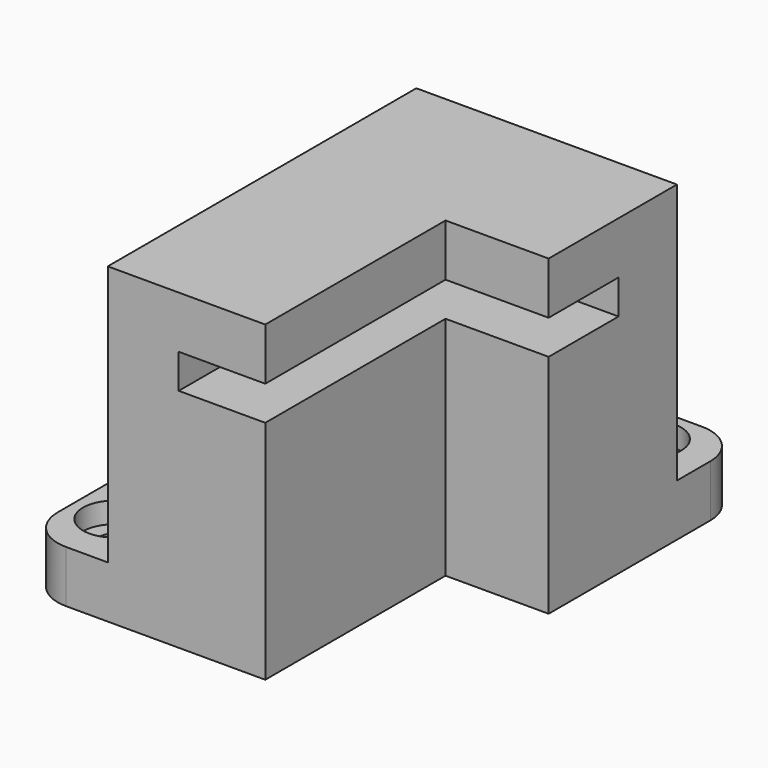
from build123d import *

# Parameters (mm, degrees)
SKETCH021_W     = 33
SKETCH021_H     = 45
PAD004_DEPTH    = 30
POCKET012_DEPTH = 25
SKETCH023_R     = 1.5
POCKET013_DEPTH = 5.001
SKETCH024_R     = 3
POCKET014_DEPTH = 2
FILLET005_R     = 4
SKETCH025_W     = 22.162351
SKETCH025_H     = 3.3
POCKET015_DEPTH = 30
SKETCH026_W     = 15.81044
SKETCH026_H     = 25.49089
POCKET016_DEPTH = 30.001


with BuildPart() as part:
    # Sketch021 → Pad004 (new body)
    with BuildSketch(Plane.XY):
        with Locations((-258.5, 252.5)):
            Rectangle(SKETCH021_W, SKETCH021_H)
    extrude(amount=PAD004_DEPTH)

    # Sketch022 (on Face6 of Pad004) → Pocket012 (cut)
    with BuildSketch(Plane.XY.offset(30)):
        Polygon((-302.024292, 225.851654), (-267, 225.851654), (-267, 267), (-233.564453, 267), (-233.564453, 282.862976), (-302.024292, 282.862976), align=None)
    extrude(amount=-POCKET012_DEPTH, mode=Mode.SUBTRACT)

    # Sketch023 (on Face6 of Pocket012) → Pocket013 (cut, through all)
    with BuildSketch(Plane.XY.offset(5)):
        with Locations((-247.791107, 271)):
            Circle(SKETCH023_R)
        with Locations((-271, 235.791107)):
            Circle(SKETCH023_R)
        with Locations((-271, 271)):
            Circle(SKETCH023_R)
    extrude(amount=-POCKET013_DEPTH, mode=Mode.SUBTRACT)

    # Sketch024 (on Face6 of Pocket013) → Pocket014 (cut)
    with BuildSketch(Plane.XY.offset(5)):
        with Locations((-271, 271)):
            Circle(SKETCH024_R)
        with Locations((-247.791107, 271)):
            Circle(SKETCH024_R)
        with Locations((-271, 235.791107)):
            Circle(SKETCH024_R)
    extrude(amount=-POCKET014_DEPTH, mode=Mode.SUBTRACT)

    # Fillet005
    fillet005_edges = [part.edges().sort_by_distance(p)[0] for p in [
        (-275, 275, 2.5),
        (-242, 275, 2.5),
        (-275, 230, 2.5),
    ]]
    fillet(fillet005_edges, radius=FILLET005_R)

    # Sketch025 (on Face1 of Fillet005) → Pocket015 (cut)
    with BuildSketch(Plane.XZ.offset(-230)):
        with Locations((-249.108824, 23.35)):
            Rectangle(SKETCH025_W, SKETCH025_H)
    extrude(amount=-POCKET015_DEPTH, mode=Mode.SUBTRACT)

    # Sketch026 (on Face7 of Pocket015) → Pocket016 (cut, through all)
    with BuildSketch(Plane.XY.offset(30)):
        with Locations((-243.98507, 238.870476)):
            Rectangle(SKETCH026_W, SKETCH026_H)
    extrude(amount=-POCKET016_DEPTH, mode=Mode.SUBTRACT)


with BuildPart() as part_1:
    # Body004 placement: moved
    add(part.part.moved(Location((0, 0, 3))))


solid = part_1.part
